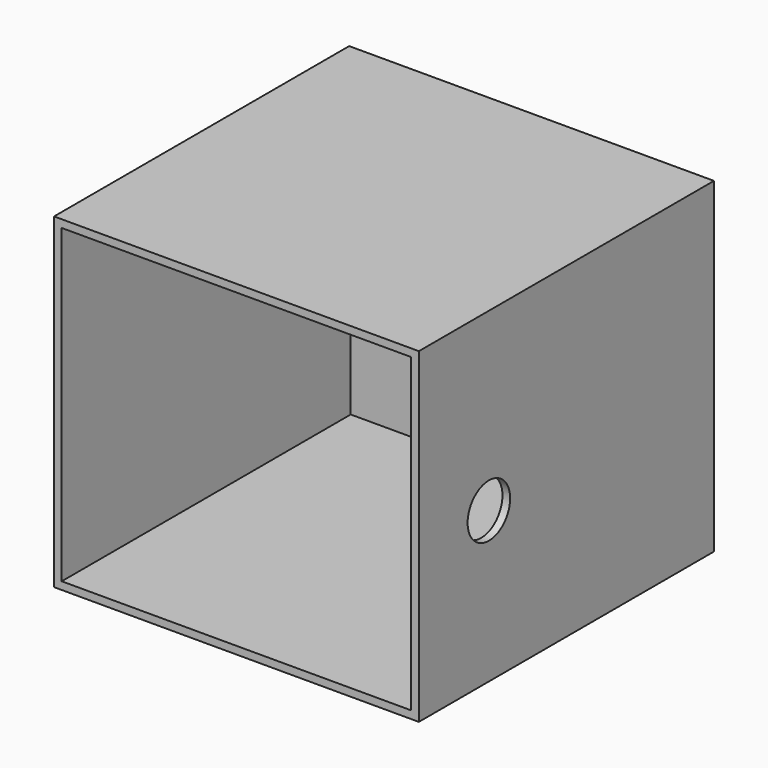
from build123d import *

# Parameters (mm, degrees)
F0_W      = 95
F0_H      = 96.059554
F1_DEPTH  = 85
F2_T      = -2
F3_R      = 6.924471
F4_DEPTH  = 65.166272
F4_FACE_R = 6.924471
F5_DEPTH  = 140.461847
F6_W      = 8
F6_H      = 30
F7_DEPTH  = 21.398656


with BuildPart() as f1:
    # F0 (on Top) → F1 (new body)
    with BuildSketch(Plane.XY):
        with Locations((-47.5, -48.029777)):
            Rectangle(F0_W, F0_H)
    extrude(amount=F1_DEPTH)

    # F2
    f2_openings = [f1.faces().sort_by_distance(p)[0] for p in [
        (-47.5, -96.059554, 42.5),
    ]]
    offset(amount=F2_T, openings=f2_openings)

    # F3 (on face) → F4 (join)
    with BuildSketch(Plane.YZ):
        with Locations((-73.268585, 39.188489)):
            Circle(F3_R)
    extrude(amount=-F4_DEPTH)

    # F4_face (on face) → F5 (cut)
    with BuildSketch(Plane(origin=(-65.166272, -73.268585, 39.188489), x_dir=(0, 1, 0), z_dir=(-1, 0, 0))):
        Circle(F4_FACE_R)
    extrude(amount=-F5_DEPTH, mode=Mode.SUBTRACT)

    # F6 (on face) → F7 (cut)
    with BuildSketch(Plane(origin=(0, 0, 0), x_dir=(-1, 0, 0), z_dir=(0, 1, 0))):
        with Locations((28.885877, 40.065341)):
            Rectangle(F6_W, F6_H)
    extrude(amount=-F7_DEPTH, mode=Mode.SUBTRACT)


solid = f1.part
